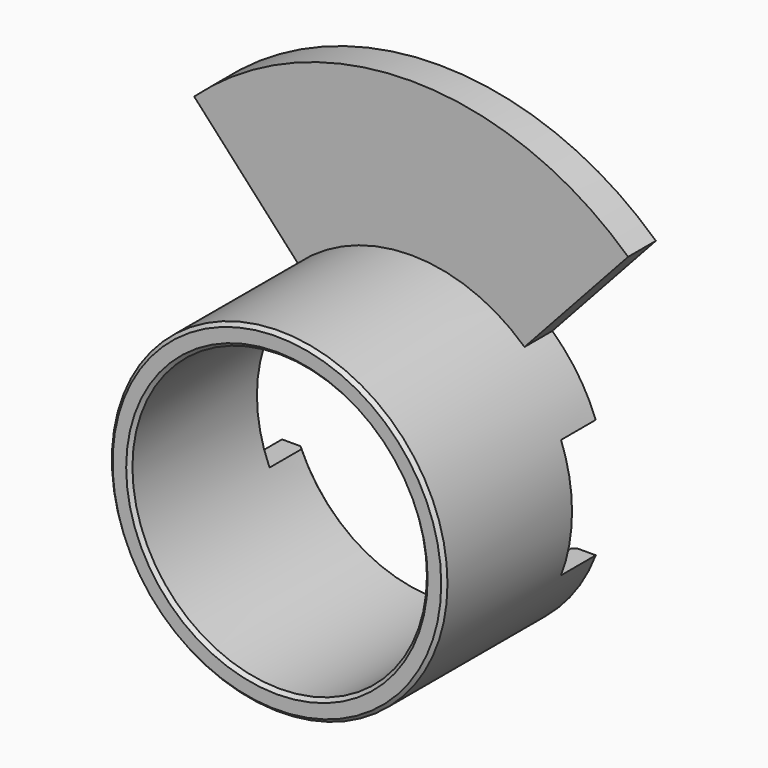
from build123d import *

# Parameters (mm, degrees)
SKETCH136_R             = 14.5
PAD078_DEPTH            = 17.5
PAD079_DEPTH            = 1.5
SKETCH138_R             = 12.725
POCKET051_DEPTH         = 18.501
CHAMFER_SIZE            = 0.3
CHAMFER001_SIZE         = 0.3
SKETCH_W                = 30
SKETCH_H                = 10.3
POCKET_DEPTH            = 3.75
BODY028_PLACEMENT_ANGLE = 90


with BuildPart() as part:
    # Sketch136 → Pad078 (new body)
    with BuildSketch(Plane.XY.offset(18.5)):
        Circle(SKETCH136_R)
    extrude(amount=-PAD078_DEPTH)

    # Sketch141 → Pad079 (join, symmetric)
    with BuildSketch(Plane.XY.offset(17)):
        with BuildLine():
            Line((0, 0), (18.747628, -20.459446))
            ThreePointArc((-18.747628, -20.459446), (0, -27.75), (18.747628, -20.459446))
            Line((0, 0), (-18.747628, -20.459446))
        make_face()
    extrude(amount=PAD079_DEPTH, both=True)

    # Sketch138 → Pocket051 (cut, through all)
    with BuildSketch(Plane.XY):
        Circle(SKETCH138_R)
    extrude(amount=POCKET051_DEPTH, mode=Mode.SUBTRACT)

    # Chamfer
    chamfer_edges = [part.edges().sort_by_distance(p)[0] for p in [
        (-12.725, 0, 1),
        (-14.5, 0, 1),
    ]]
    chamfer(chamfer_edges, length=CHAMFER_SIZE)

    # Chamfer001
    chamfer001_edges = [part.edges().sort_by_distance(p)[0] for p in [
        (0, -12.725, 18.5),
    ]]
    chamfer(chamfer001_edges, length=CHAMFER001_SIZE)

    # Sketch → Pocket (cut)
    with BuildSketch(Plane.XY.offset(18.5)):
        Rectangle(SKETCH_W, SKETCH_H)
    extrude(amount=-POCKET_DEPTH, mode=Mode.SUBTRACT)


with BuildPart() as part_1:
    # Body028 placement: moved
    add(part.part.moved(Location((0, 28.5, 0))).rotate(Axis((0, 28.5, 0), (-1, 0, 0)), BODY028_PLACEMENT_ANGLE))


solid = part_1.part
